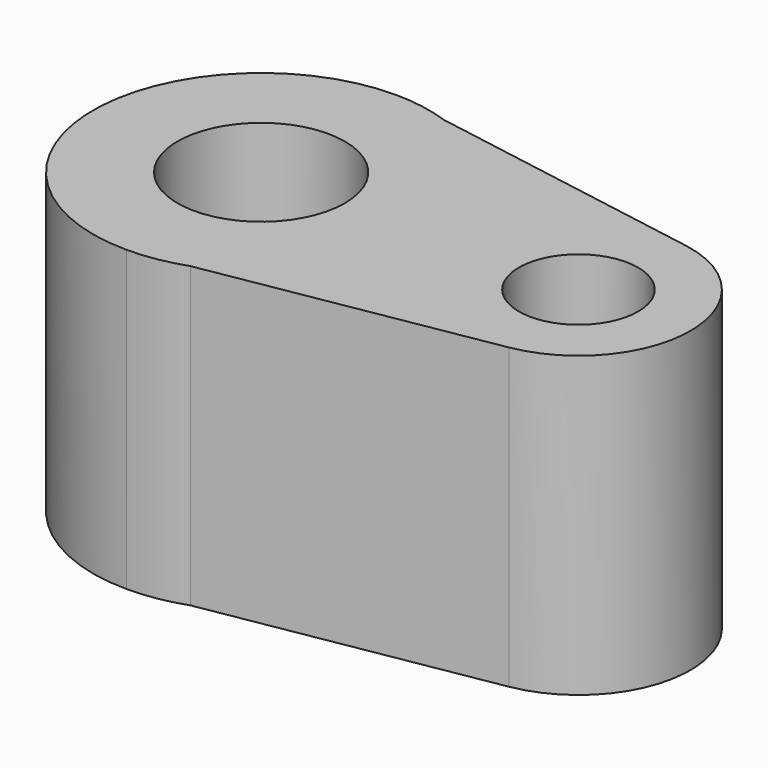
from build123d import *

# Parameters (mm, degrees)
F0_R     = 14.235704
F0_R_2   = 10.13824
F1_DEPTH = 50.8
F2_DEPTH = 114.046


with BuildPart() as f1:
    # F0 (on Top) → F1 (new body)
    with BuildSketch(Plane.XY):
        Circle(F0_R)
        with Locations((53.975, 0)):
            Circle(F0_R_2)
        with BuildLine():
            Line((57.191927, 18.776418), (9.512184, 26.945296))
            Line((9.512184, 26.945296), (0, 28.575))
            ThreePointArc((0, 28.575), (-28.575, 0), (0, -28.575))
            Line((0, -28.575), (9.512184, -26.945296))
            Line((9.512184, -26.945296), (57.191927, -18.776418))
            ThreePointArc((57.191927, -18.776418), (73.025, 0), (57.191927, 18.776418))
        make_face()
        Circle(F0_R, mode=Mode.SUBTRACT)
        with Locations((53.975, 0)):
            Circle(F0_R_2, mode=Mode.SUBTRACT)
        with BuildLine():
            Line((0, 28.575), (9.512184, 26.945296))
            ThreePointArc((9.512184, 26.945296), (4.825391, 28.164627), (0, 28.575))
        make_face()
        with BuildLine():
            Line((9.512184, -26.945296), (0, -28.575))
            ThreePointArc((0, -28.575), (4.825391, -28.164627), (9.512184, -26.945296))
        make_face()
    extrude(amount=F1_DEPTH)

    # F0 (on Top) → F2 (cut)
    with BuildSketch(Plane.XY):
        Circle(F0_R)
        with Locations((53.975, 0)):
            Circle(F0_R_2)
    extrude(amount=F2_DEPTH, mode=Mode.SUBTRACT)


solid = f1.part
